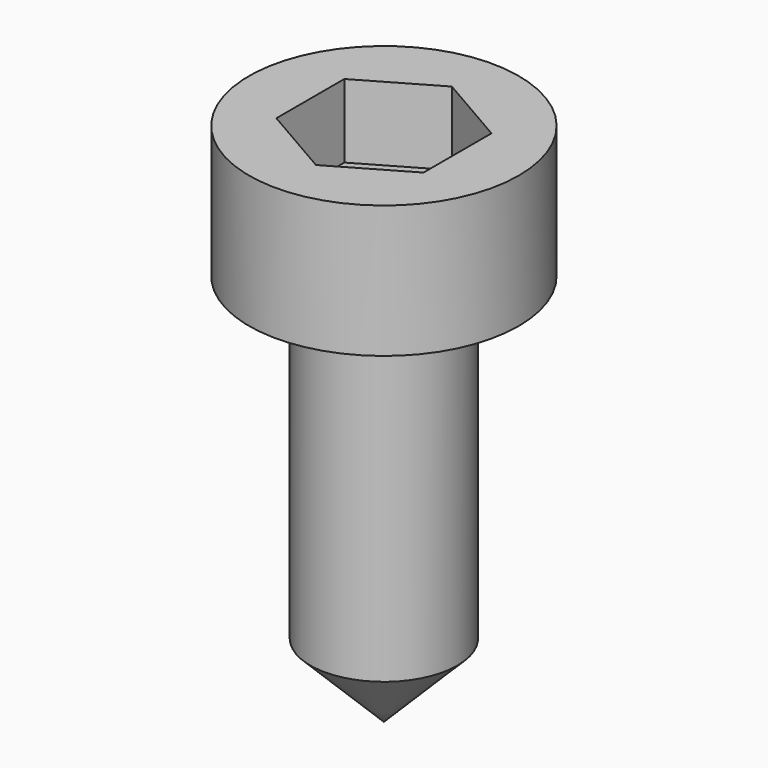
from build123d import *

# Parameters (mm, degrees)
F0_R     = 2.75
F0_R_2   = 1.5
F1_DEPTH = 2.7
F2_DEPTH = 8
F3_SIZE  = 1.5
F5_DEPTH = 1.5


with BuildPart() as f1:
    # F0 (on Top) → F1 (new body)
    with BuildSketch(Plane.XY):
        Circle(F0_R)
        Circle(F0_R_2, mode=Mode.SUBTRACT)
        Circle(F0_R_2)
    extrude(amount=F1_DEPTH)

    # F0 (on Top) → F2 (join)
    with BuildSketch(Plane.XY):
        Circle(F0_R_2)
    extrude(amount=-F2_DEPTH)

    # F3
    f3_edges = [f1.edges().sort_by_distance(p)[0] for p in [
        (-1.5, 0, -8),
    ]]
    chamfer(f3_edges, length=F3_SIZE)

    # F4 (on face) → F5 (cut)
    with BuildSketch(Plane.XY.offset(2.7)):
        Polygon((1.5, -0.866025), (1.5, 0.866025), (0, 1.732051), (-1.5, 0.866025), (-1.5, -0.866025), (0, -1.732051), align=None)
    extrude(amount=-F5_DEPTH, mode=Mode.SUBTRACT)


solid = f1.part
